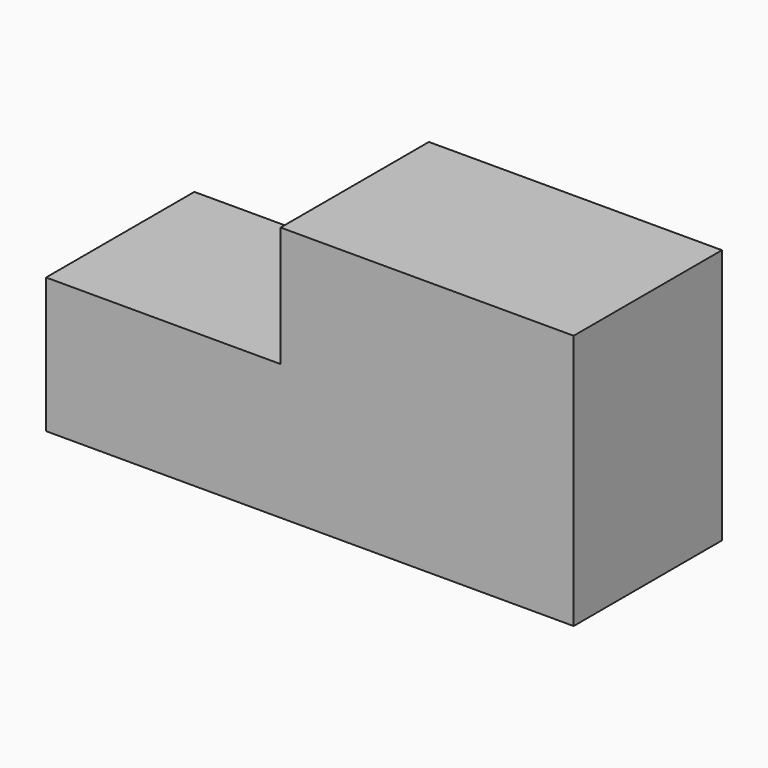
from build123d import *

# Parameters (mm, degrees)
F0_W     = 167.0182794333
F0_H     = 48.4514534473
F1_DEPTH = 42.8443159908
F2_DEPTH = 10.226784274
F3_W     = 92.7675813437
F3_H     = 58.6782377213
F4_DEPTH = 38.0648057908


with BuildPart() as f1:
    # F0 (on Top) → F1 (new body)
    with BuildSketch(Plane.XY):
        with Locations((9.258441627, -0.4500597715)):
            Rectangle(F0_W, F0_H)
    extrude(amount=F1_DEPTH)

    # F2 (add): a face of the model
    f2_faces = [f1.faces().sort_by_distance(p)[0] for p in [
        (9.258441627, -24.6757864952, 21.4221579954),
    ]]
    extrude(f2_faces, amount=F2_DEPTH)

    # F3 (on face) → F4 (join)
    with BuildSketch(Plane.XY.offset(42.8443159908)):
        with Locations((46.3837906718, -5.5634519085)):
            Rectangle(F3_W, F3_H)
    extrude(amount=F4_DEPTH)


solid = f1.part
